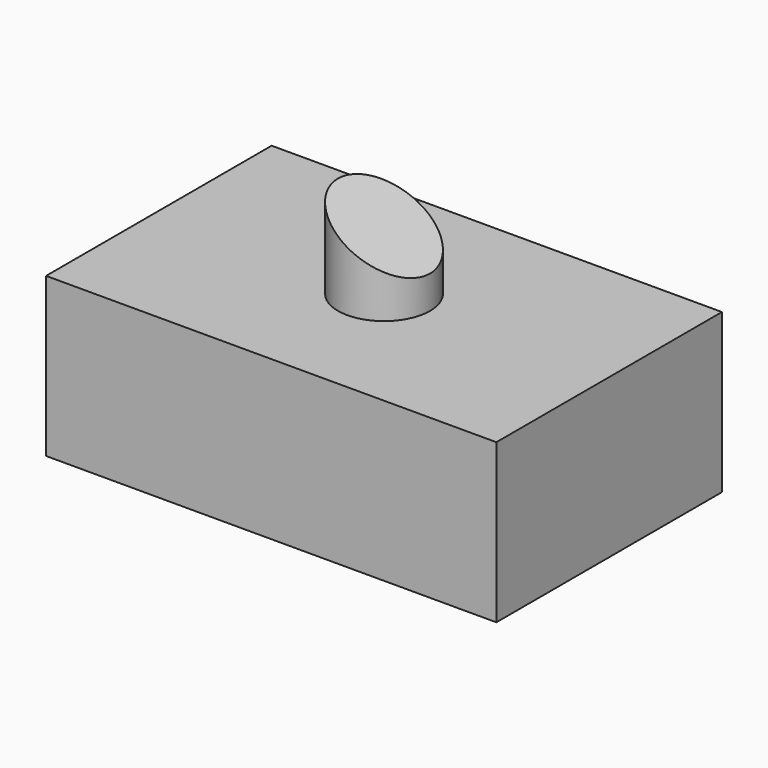
from build123d import *

# Parameters (mm, degrees)
F0_W     = 72.121516
F0_H     = 45.15715
F1_DEPTH = 25.4
F2_R     = 7.371014
F3_DEPTH = 14.986
F5_DEPTH = 41.656


with BuildPart() as f1:
    # F0 (on Top) → F1 (new body)
    with BuildSketch(Plane.XY):
        Rectangle(F0_W, F0_H)
    extrude(amount=F1_DEPTH)

    # F2 (on face) → F3 (join)
    with BuildSketch(Plane.XY.offset(25.4)):
        Circle(F2_R)
    extrude(amount=F3_DEPTH)

    # F4 (on face) → F5 (cut)
    with BuildSketch(Plane.XZ.offset(22.578575)):
        Polygon((10.064982, 44.364773), (-10.993307, 41.398816), (10.064982, 29.090097), align=None)
    extrude(amount=-F5_DEPTH, mode=Mode.SUBTRACT)


solid = f1.part
